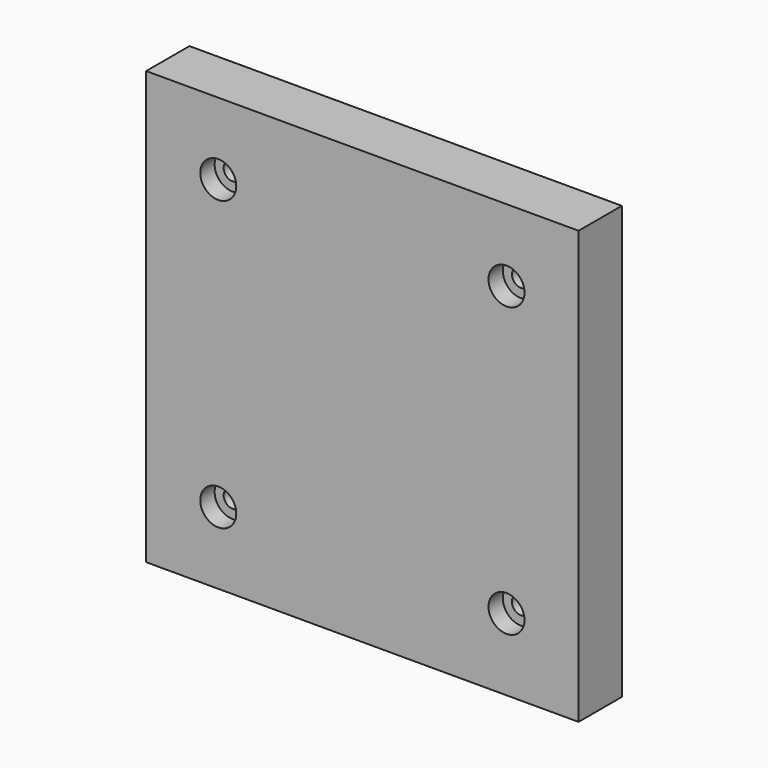
from build123d import *

# Parameters (mm, degrees)
F0_W           = 152.4
F0_H           = 152.4
F1_DEPTH       = 9.525
F3_D           = 6.35
F3_CBORE_D     = 12.7
F3_CBORE_DEPTH = 6.35


with BuildPart() as f1:
    # F0 (on Front) → F1 (new body, symmetric)
    with BuildSketch(Plane.XZ):
        Rectangle(F0_W, F0_H)
    extrude(amount=F1_DEPTH, both=True)

    # F3 (through all)
    with Locations(Plane.XZ.offset(9.525)):
        with Locations((-50.8, 50.8), (50.8, 50.8), (50.8, -50.8), (-50.8, -50.8)):
            CounterBoreHole(F3_D / 2, F3_CBORE_D / 2, F3_CBORE_DEPTH)


solid = f1.part
